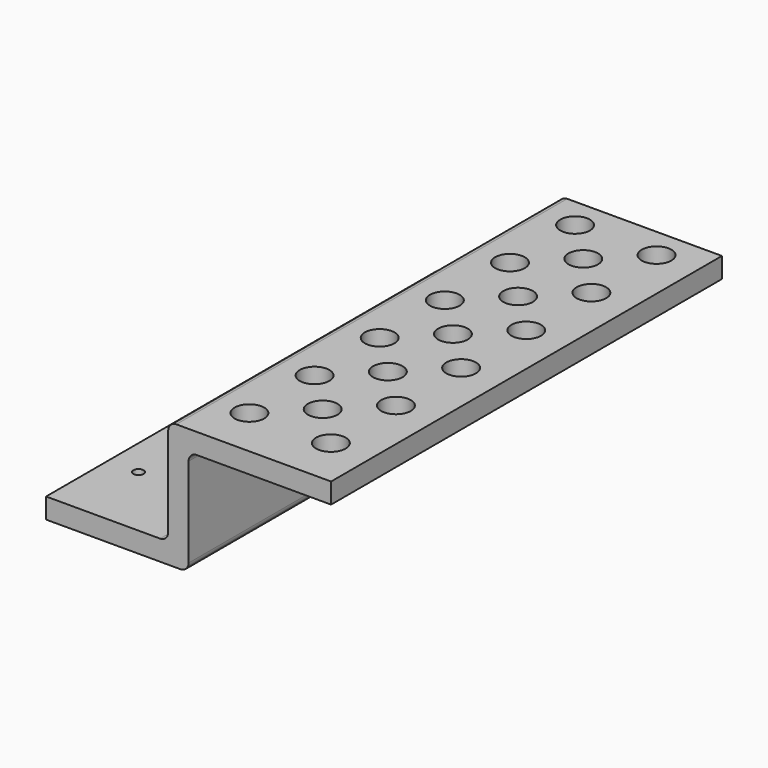
from build123d import *

# Parameters (mm, degrees)
F1_DEPTH = 76.2
F2_R     = 0.79375
F2_W     = 6.35
F2_H     = 33.02
F3_DEPTH = 5.842
F4_R     = 2.3114
F5_DEPTH = 3.81


with BuildPart() as f1:
    # F0 (on Front) → F1 (new body)
    with BuildSketch(Plane.XZ):
        with BuildLine():
            Line((-29.730175, 55.896019), (-53.860175, 55.896019))
            ThreePointArc((-53.860175, 55.896019), (-54.7582, 55.524044), (-55.130175, 54.626019))
            Line((-55.130175, 54.626019), (-55.130175, 52.721019))
            Line((-55.130175, 52.721019), (-55.130175, 40.656019))
            ThreePointArc((-55.130175, 40.656019), (-55.502149, 39.757993), (-56.400175, 39.386019))
            Line((-56.400175, 39.386019), (-74.180175, 39.386019))
            Line((-74.180175, 39.386019), (-74.180175, 36.211019))
            Line((-74.180175, 36.211019), (-55.130175, 36.211019))
            Line((-55.130175, 36.211019), (-53.225175, 36.211019))
            ThreePointArc((-53.225175, 36.211019), (-52.327149, 36.582993), (-51.955175, 37.481019))
            Line((-51.955175, 37.481019), (-51.955175, 51.451019))
            ThreePointArc((-51.955175, 51.451019), (-51.5832, 52.349044), (-50.685175, 52.721019))
            Line((-50.685175, 52.721019), (-29.730175, 52.721019))
            Line((-29.730175, 52.721019), (-29.730175, 55.896019))
        make_face()
    extrude(amount=F1_DEPTH)

    # F2 (on face) → F3 (cut)
    with BuildSketch(Plane.XY.offset(39.386019)):
        with Locations((-69.417675, -64.135)):
            Circle(F2_R)
        with Locations((-67.830175, -38.1)):
            Rectangle(F2_W, F2_H)
        with Locations((-69.417675, -12.065)):
            Circle(F2_R)
    extrude(amount=-F3_DEPTH, mode=Mode.SUBTRACT)

    # F4 (on face) → F5 (cut)
    with BuildSketch(Plane.XY.offset(55.896019)):
        with Locations((-48.780175, -55.608343)):
            Circle(F4_R)
        with Locations((-48.780175, -68.308343)):
            Circle(F4_R)
        with Locations((-42.430175, -61.958343)):
            Circle(F4_R)
        with Locations((-36.080175, -68.308343)):
            Circle(F4_R)
        with Locations((-36.080175, -55.608343)):
            Circle(F4_R)
        with Locations((-36.080175, -42.908343)):
            Circle(F4_R)
        with Locations((-42.430175, -49.258343)):
            Circle(F4_R)
        with Locations((-48.780175, -42.908343)):
            Circle(F4_R)
        with Locations((-42.430175, -36.558343)):
            Circle(F4_R)
        with Locations((-36.080175, -30.208343)):
            Circle(F4_R)
        with Locations((-48.780175, -30.208343)):
            Circle(F4_R)
        with Locations((-42.430175, -23.858343)):
            Circle(F4_R)
        with Locations((-36.080175, -17.508343)):
            Circle(F4_R)
        with Locations((-42.430175, -11.158343)):
            Circle(F4_R)
        with Locations((-48.780175, -17.508343)):
            Circle(F4_R)
        with Locations((-36.080175, -4.808343)):
            Circle(F4_R)
        with Locations((-48.780175, -4.808343)):
            Circle(F4_R)
    extrude(amount=-F5_DEPTH, mode=Mode.SUBTRACT)


solid = f1.part
